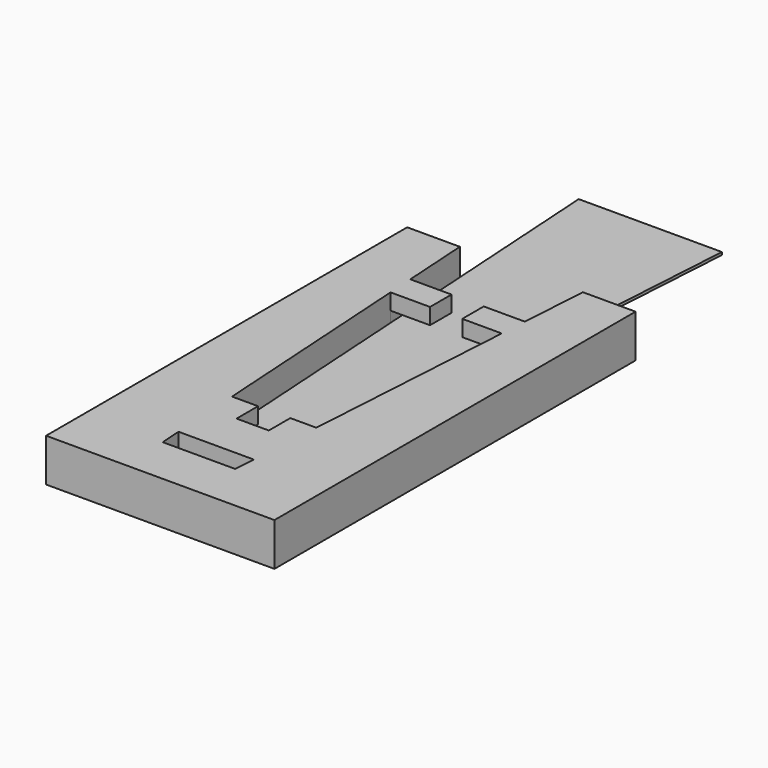
from build123d import *

# Parameters (mm, degrees)
F1_DEPTH = 11
F2_START = 5
F2_DEPTH = 6
F3_DEPTH = 5
F4_DEPTH = 1


with BuildPart() as f1:
    # F0 (on Top) → F1 (new body)
    with BuildSketch(Plane.XY):
        Polygon((-38.25, -110), (-38.25, 45), (-42.5, 45), (-42.5, -123), (42.5, -123), (42.5, 45), (38.25, 45), (38.25, -110), align=None)
        Polygon((-21.3273809524, 20), (-22.8928571429, 45), (-38.25, 45), (-38.25, -110), (38.25, -110), (38.25, 45), (22.8928571429, 45), (21.3273809524, 20), (20.7011904762, 10), (15.6916666667, -70), (15.0654761905, -80), (14.000952381, -97), (13.5, -105), (-13.5, -105), (-14.000952381, -97), (-15.0654761905, -80), (-15.6916666667, -70), (-20.7011904762, 10), align=None)
    extrude(amount=F1_DEPTH)

    # F0 (on Top) → F2 (join)
    with BuildSketch(Plane.XY.offset(F2_START)):
        Polygon((20.7011904762, 10), (21.3273809524, 20), (6, 20), (6, 10), align=None)
        Polygon((-6, 20), (-21.3273809524, 20), (-20.7011904762, 10), (-6, 10), align=None)
        Polygon((-6, -70), (-15.6916666667, -70), (-15.0654761905, -80), (-6, -80), align=None)
        Polygon((15.0654761905, -80), (15.6916666667, -70), (6, -70), (6, -80), align=None)
        Polygon((-6, -80), (-15.0654761905, -80), (-14.000952381, -97), (14.000952381, -97), (15.0654761905, -80), (6, -80), align=None)
    extrude(amount=F2_DEPTH)

    # F0 (on Top) → F3 (join)
    with BuildSketch(Plane.XY):
        Polygon((-38.25, -110), (-38.25, 45), (-42.5, 45), (-42.5, -123), (42.5, -123), (42.5, 45), (38.25, 45), (38.25, -110), align=None)
    extrude(amount=-F3_DEPTH)


with BuildPart() as f4:
    # F0 (on Top) → F4 (new body)
    with BuildSketch(Plane.XY):
        Polygon((14.000952381, -97), (-14.000952381, -97), (-13.5, -105), (13.5, -105), align=None)
        Polygon((22.8928571429, 45), (-22.8928571429, 45), (-21.3273809524, 20), (-6, 20), (-6, 10), (-20.7011904762, 10), (-15.6916666667, -70), (-6, -70), (-6, -80), (6, -80), (6, -70), (15.6916666667, -70), (20.7011904762, 10), (6, 10), (6, 20), (21.3273809524, 20), align=None)
        Polygon((15.0654761905, -80), (15.6916666667, -70), (6, -70), (6, -80), align=None)
        Polygon((26.65, 105), (-26.65, 105), (-22.8928571429, 45), (22.8928571429, 45), align=None)
        Polygon((20.7011904762, 10), (21.3273809524, 20), (6, 20), (6, 10), align=None)
        Polygon((-6, 20), (-21.3273809524, 20), (-20.7011904762, 10), (-6, 10), align=None)
        Polygon((-6, -70), (-15.6916666667, -70), (-15.0654761905, -80), (-6, -80), align=None)
        Polygon((-6, -80), (-15.0654761905, -80), (-14.000952381, -97), (14.000952381, -97), (15.0654761905, -80), (6, -80), align=None)
    extrude(amount=F4_DEPTH)


solid = Compound([f1.part, f4.part])
